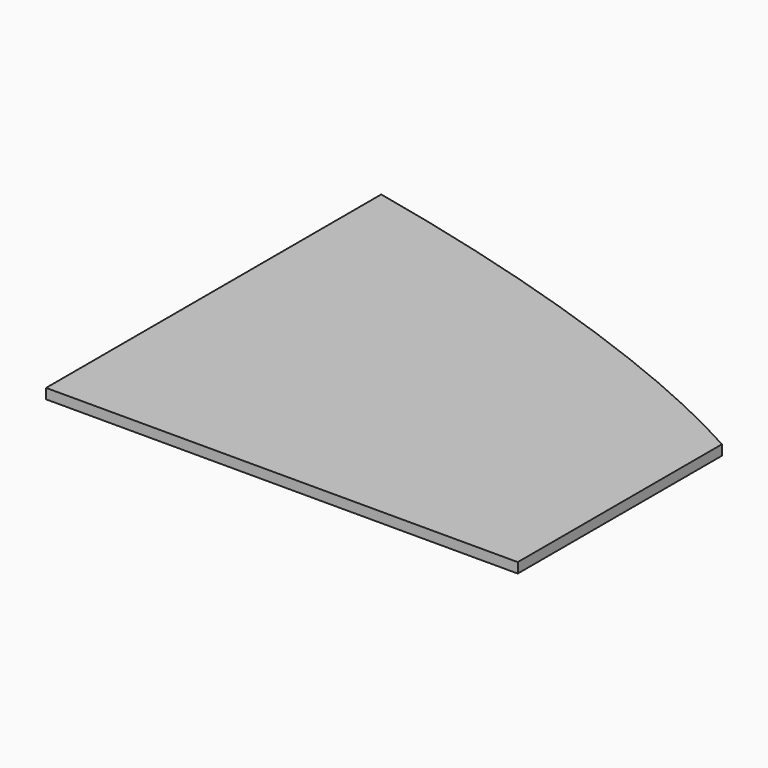
from build123d import *

# Parameters (mm, degrees)
F1_DEPTH = 3
F2_W     = 900
F2_H     = 300
F2_W_2   = 140
F2_H_2   = 295
F3_DEPTH = 25


with BuildPart() as f1:
    # F0 (on Top) → F1 (new body)
    with BuildSketch(Plane.XY):
        with BuildLine():
            Line((-155, 140), (-155, 0))
            Line((-155, 0), (155, 0))
            Line((155, 0), (155, 50))
            add(Edge.make_bspline(
                [(-155, 140), (-48.6499257386, 141.1626338959), (110.3091782722, 98.3189062543), (155, 50)],
                knots=[0, 0, 0, 0, 0.7100033564, 0.7100033564, 0.7100033564, 0.7100033564], degree=3))
        make_face()
        with BuildLine():
            Line((155, 50), (155, 0))
            Line((155, 0), (175, 0))
            add(Edge.make_bspline(
                [(155, 50), (173.2537000506, 30.2644304257), (172.4444180727, 9.6154557541), (175, 0)],
                knots=[0.7100033564, 0.7100033564, 0.7100033564, 0.7100033564, 1, 1, 1, 1], degree=3))
        make_face()
        with BuildLine():
            Line((-155, 140), (-155, 0))
            Line((-155, 0), (155, 0))
            Line((155, 0), (155, 50))
            add(Edge.make_bspline(
                [(-155, 140), (-48.6499257386, 141.1626338959), (110.3091782722, 98.3189062543), (155, 50)],
                knots=[0, 0, 0, 0, 0.7100033564, 0.7100033564, 0.7100033564, 0.7100033564], degree=3))
        make_face()
    extrude(amount=F1_DEPTH)


with BuildPart() as f3:
    # F2 (on Top) → F3 (new body)
    with BuildSketch(Plane.XY):
        Rectangle(F2_W, F2_H)
        Rectangle(F2_W_2, F2_H_2, mode=Mode.SUBTRACT)
    extrude(amount=F3_DEPTH)


with BuildPart() as f3_1:
    # F4: moved
    add(f3.part.moved(Location((50, 0, 0))))


with BuildPart() as f1_1:
    add(f1.part)

    # F5: cut F3
    add(f3_1.part, mode=Mode.SUBTRACT)


solid = f1_1.part
